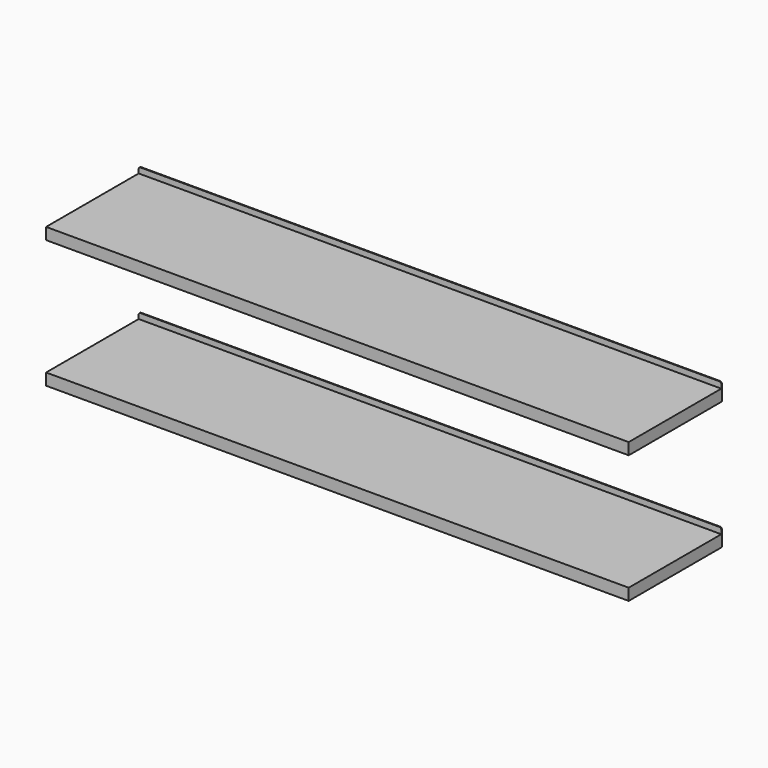
from build123d import *

# Parameters (mm, degrees)
F0_W     = 1500
F0_H     = 30
F1_DEPTH = 300
F2_W     = 1500
F2_H     = 2
F3_DEPTH = 15
F4_W     = 1500
F4_H     = 2
F5_DEPTH = 15
F6_R     = 5


with BuildPart() as f1:
    # F0 (on Front) → F1 (new body)
    with BuildSketch(Plane.XZ):
        Rectangle(F0_W, F0_H)
        with Locations((0, 330)):
            Rectangle(F0_W, F0_H)
    extrude(amount=F1_DEPTH)

    # F2 (on face) → F3 (join)
    with BuildSketch(Plane.XY.offset(345)):
        with Locations((0, -1)):
            Rectangle(F2_W, F2_H)
    extrude(amount=F3_DEPTH)

    # F4 (on face) → F5 (join)
    with BuildSketch(Plane.XY.offset(15)):
        with Locations((0, -1)):
            Rectangle(F4_W, F4_H)
    extrude(amount=F5_DEPTH)

    # F6
    f6_edges = [f1.edges().sort_by_distance(p)[0] for p in [
        (-750, -1, 360),
        (-750, -1, 30),
        (750, -1, 360),
        (750, -1, 30),
    ]]
    fillet(f6_edges, radius=F6_R)


solid = f1.part
